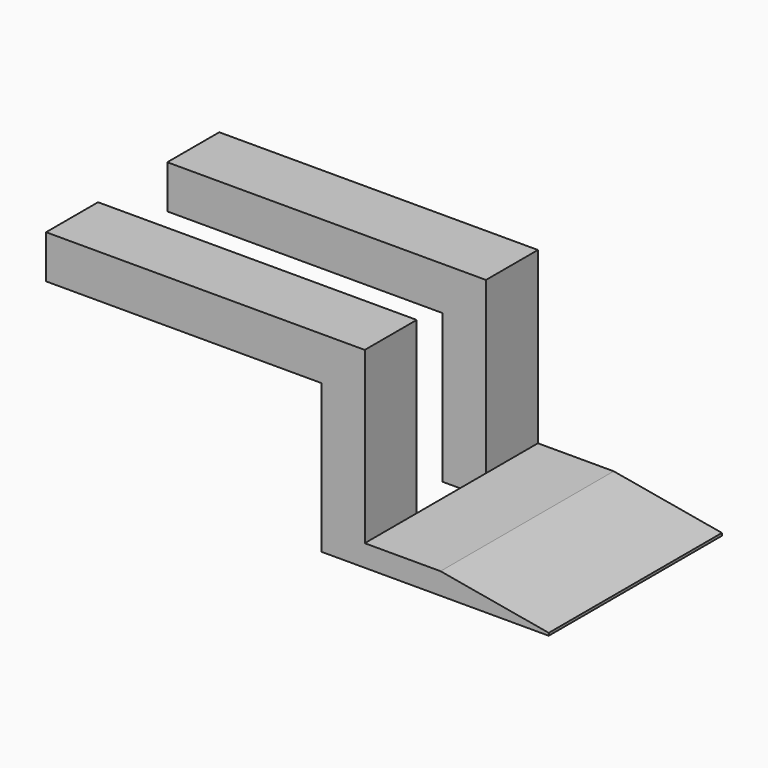
from build123d import *

# Parameters (mm, degrees)
F1_DEPTH = 127
F2_W     = 186.9721719681
F2_H     = 50.8
F3_DEPTH = 112.5370903122
F4_SIZE2 = 11.196763275
F4_SIZE  = 63.5


with BuildPart() as f1:
    # F0 (on Front) → F1 (new body)
    with BuildSketch(Plane.XZ):
        Polygon((162.2777349776, -12.7), (162.2777349776, 0), (54.3277631103, 0), (54.3277631103, 99.8360903122), (-132.6444088578, 99.8360903122), (-132.6444088578, 74.4360903122), (28.9277631103, 74.4360903122), (28.9277631103, -12.7), align=None)
    extrude(amount=F1_DEPTH)

    # F2 (on face) → F3 (cut, through all)
    with BuildSketch(Plane.XY.offset(99.8360903122)):
        with Locations((-39.1583228738, -63.5)):
            Rectangle(F2_W, F2_H)
    extrude(amount=-F3_DEPTH, mode=Mode.SUBTRACT)

    # F4
    f4_edges = [f1.edges().sort_by_distance(p)[0] for p in [
        (162.277735, -63.5, 0),
    ]]
    f4_side = f1.faces().sort_by_distance((108.302749, -63.5, 0))[0]
    chamfer(f4_edges, length=F4_SIZE, length2=F4_SIZE2, reference=f4_side)


solid = f1.part
